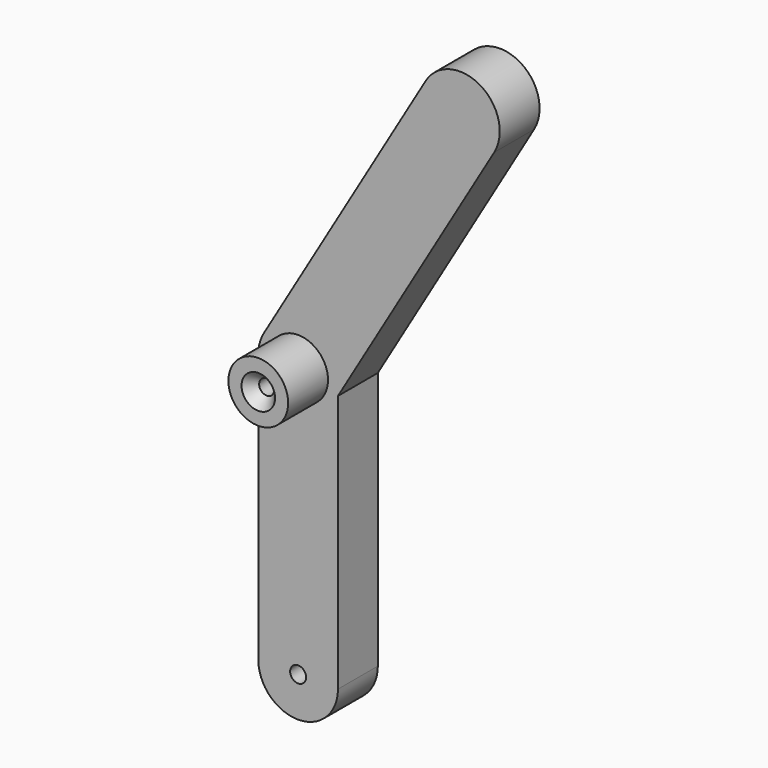
from build123d import *

# Parameters (mm, degrees)
F1_DEPTH       = 6.35
F2_R           = 3.81
F3_DEPTH       = 6.35
F5_D           = 1.9304
F5_CSINK_D     = 4.2672
F5_CSINK_ANGLE = 82
F7_D           = 2.032


with BuildPart() as f1:
    # F0 (on Front) → F1 (new body)
    with BuildSketch(Plane.XZ):
        with BuildLine():
            ThreePointArc((-5.08, 12.7), (-3.5921024484, 9.1078975516), (0, 7.62))
            Line((0, 7.62), (0, 12.7))
            Line((0, 12.7), (0, 17.78))
            ThreePointArc((0, 17.78), (-3.5921024484, 16.2921024484), (-5.08, 12.7))
        make_face()
        with BuildLine():
            Line((0, 12.7), (0, 7.62))
            ThreePointArc((0, 7.62), (3.5921024484, 9.1078975516), (5.08, 12.7))
            ThreePointArc((5.08, 12.7), (3.5921024484, 16.2921024484), (0, 17.78))
            Line((0, 17.78), (0, 12.7))
        make_face()
        with BuildLine():
            ThreePointArc((5.08, 12.7), (3.5921024484, 9.1078975516), (0, 7.62))
            ThreePointArc((0, 7.62), (-3.5921024484, 9.1078975516), (-5.08, 12.7))
            Line((-5.08, 12.7), (-5.08, 0))
            ThreePointArc((-5.08, 0), (0, -5.08), (5.08, 0))
            Line((5.08, 0), (5.08, 12.7))
        make_face()
        with BuildLine():
            ThreePointArc((0, 17.78), (3.5921024484, 16.2921024484), (5.08, 12.7))
            Line((5.08, 12.7), (5.08, 32.9050179497))
            Line((5.08, 32.9050179497), (4.3770618794, 31.711680915))
            ThreePointArc((4.3770618794, 31.711680915), (2.5207676458, 29.8795430536), (0, 29.21))
            Line((0, 29.21), (0, 17.78))
        make_face()
        with BuildLine():
            Line((-5.08, 34.29), (-5.08, 12.7))
            ThreePointArc((-5.08, 12.7), (-3.5921024484, 16.2921024484), (0, 17.78))
            Line((0, 17.78), (0, 29.21))
            ThreePointArc((0, 29.21), (-3.5921024484, 30.6978975516), (-5.08, 34.29))
        make_face()
        with BuildLine():
            Line((4.3770618794, 31.711680915), (5.08, 32.9050179497))
            Line((5.08, 32.9050179497), (5.08, 34.29))
            ThreePointArc((5.08, 34.29), (4.4104569464, 36.8107676458), (2.578319085, 38.6670618794))
            Line((2.578319085, 38.6670618794), (0, 34.29))
            Line((0, 34.29), (0, 29.21))
            ThreePointArc((0, 29.21), (2.5207676458, 29.8795430536), (4.3770618794, 31.711680915))
        make_face()
        with BuildLine():
            Line((5.08, 34.29), (5.08, 32.9050179497))
            Line((5.08, 32.9050179497), (25.0036145592, 66.7281759502))
            ThreePointArc((25.0036145592, 66.7281759502), (23.2048717648, 73.6835569145), (16.2494908004, 71.8848141201))
            Line((16.2494908004, 71.8848141201), (-4.3770618794, 36.868319085))
            ThreePointArc((-4.3770618794, 36.868319085), (-1.2719032275, 39.2081970456), (2.578319085, 38.6670618794))
            ThreePointArc((2.578319085, 38.6670618794), (4.4104569464, 36.8107676458), (5.08, 34.29))
        make_face()
        with BuildLine():
            ThreePointArc((-4.3770618794, 36.868319085), (-4.9011159111, 35.6262121188), (-5.08, 34.29))
            ThreePointArc((-5.08, 34.29), (-3.5921024484, 30.6978975516), (0, 29.21))
            Line((0, 29.21), (0, 34.29))
            Line((0, 34.29), (2.578319085, 38.6670618794))
            ThreePointArc((2.578319085, 38.6670618794), (-1.2719032275, 39.2081970456), (-4.3770618794, 36.868319085))
        make_face()
    extrude(amount=F1_DEPTH)

    # F2 (on face) → F3 (join)
    with BuildSketch(Plane.XZ.offset(6.35)):
        with Locations((0, 34.29)):
            Circle(F2_R)
    extrude(amount=F3_DEPTH)

    # F5 (through all)
    with Locations(Plane.XZ.offset(12.7)):
        with Locations((0, 34.29)):
            CounterSinkHole(F5_D / 2, F5_CSINK_D / 2, counter_sink_angle=F5_CSINK_ANGLE)

    # F7 (through all)
    with Locations(Plane.XZ.offset(6.35)):
        with Locations((0, 0)):
            Hole(F7_D / 2)


solid = f1.part
